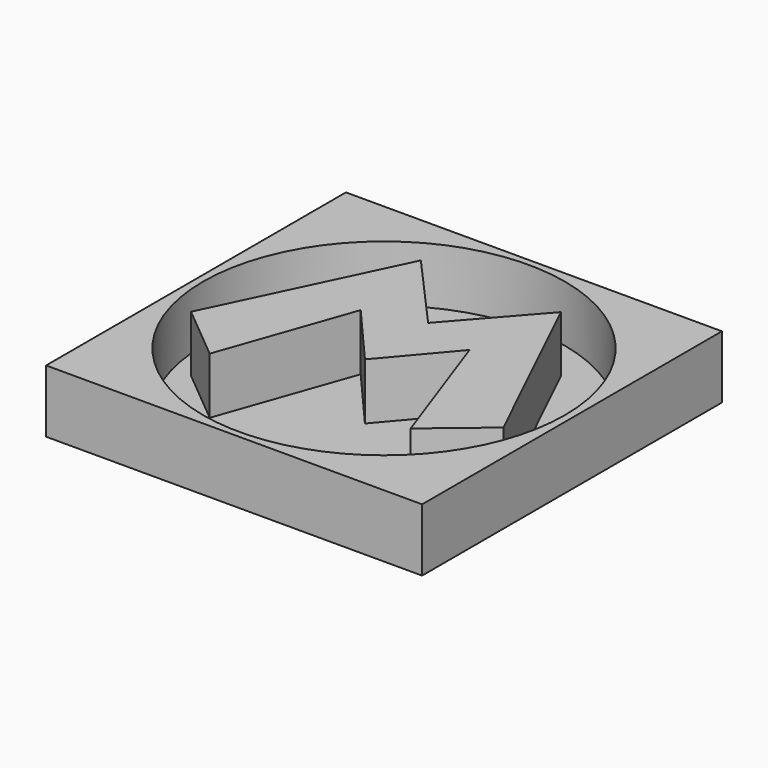
from build123d import *

# Parameters (mm, degrees)
F0_R     = 73.2052384523
F1_DEPTH = 2.54
F0_W     = 152.1742939949
F0_H     = 151.6839265823
F2_DEPTH = 25.4
F4_DEPTH = 25.4


with BuildPart() as f1:
    # F0 (on Top) → F1 (new body)
    with BuildSketch(Plane.XY):
        Circle(F0_R)
        Polygon((-40.7538563013, -37.2341535985), (-63.2713064551, -18.5253843665), (-28.52431871, 54.2785041034), (0, 22.3221629858), (28.1545463949, 54.3052591383), (63.3123517036, -18.7383014709), (40.8359244466, -37.5453457236), (21.7867922038, 16.0413701087), (0, -9.6461987123), (-22.1097543836, 15.8388335258), align=None, mode=Mode.SUBTRACT)
    extrude(amount=F1_DEPTH)

    # F0 (on Top) → F2 (join)
    with BuildSketch(Plane.XY):
        Rectangle(F0_W, F0_H)
        Circle(F0_R, mode=Mode.SUBTRACT)
    extrude(amount=F2_DEPTH)

    # F3 (on face) → F4 (join)
    with BuildSketch(Plane.XY.offset(25.4)):
        Polygon((-28.52431871, 54.2785041034), (-63.2713064551, -18.5253843665), (-40.7538563013, -37.2341535985), (-22.1097543836, 15.8388335258), (0, -9.6461987123), (21.7867922038, 16.0413701087), (40.8359244466, -37.5453457236), (63.3123517036, -18.7383014709), (28.1545463949, 54.3052591383), (0, 22.3221629858), align=None)
    extrude(amount=-F4_DEPTH)


solid = f1.part
